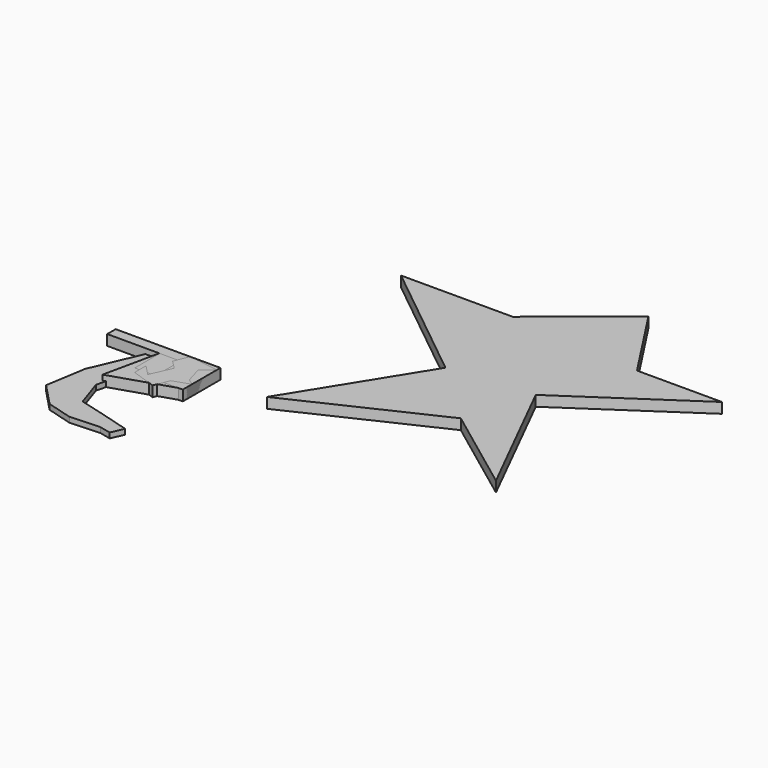
from build123d import *

# Parameters (mm, degrees)
PAD001_DEPTH = 10
SKETCH006_W  = 17.330512
SKETCH006_H  = 14.988543
PAD006_DEPTH = 10
PAD007_DEPTH = 5
PAD008_DEPTH = 5
PAD014_DEPTH = 10
PAD013_DEPTH = 10
SKETCH018_W  = 100.185661
SKETCH018_H  = 10.112617
PAD025_DEPTH = 10
SKETCH030_W  = 29.960587
SKETCH030_H  = 30.027189
PAD024_DEPTH = 10
SKETCH028_W  = 29.960587
SKETCH028_H  = 30.027189
PAD027_DEPTH = 10
SKETCH026_W  = 49.87516
SKETCH026_H  = 40.159164
PAD022_DEPTH = 10
SKETCH029_W  = 29.960587
SKETCH029_H  = 30.027189
PAD021_DEPTH = 10
SKETCH024_W  = 100.185661
SKETCH024_H  = 10.112617
PAD031_DEPTH = 10
SKETCH020_W  = 20.015697
SKETCH020_H  = 44.976456
PAD020_DEPTH = 10
PAD032_DEPTH = 10
PAD035_DEPTH = 5
PAD037_DEPTH = 5
PAD038_DEPTH = 5
PAD_DEPTH    = 10


with BuildPart() as body001:
    # Sketch001 → Pad001 (new body)
    with BuildSketch(Plane.XY):
        Polygon((-14.146512, 4.385867), (-14.444172, -3.274984), (-10.871528, -10.058305), (-4.385867, -14.146512), (3.274984, -14.444172), (10.058305, -10.871528), (14.146512, -4.385867), (14.444172, 3.274984), (10.871528, 10.058305), (4.385867, 14.146512), (-3.274984, 14.444172), (-10.058305, 10.871528), align=None)
    extrude(amount=PAD001_DEPTH)


with BuildPart() as body001_1:
    # Body001 placement: moved
    add(body001.part.moved(Location((-14.444172, -14.444172, 0))))


with BuildPart() as body006:
    # Sketch006 → Pad006 (new body)
    with BuildSketch(Plane.XY):
        with Locations((-1.850273, 0.820157)):
            Rectangle(SKETCH006_W, SKETCH006_H)
    extrude(amount=PAD006_DEPTH)

    # Sketch007 → Pad007 (join)
    with BuildSketch(Plane.XY):
        Polygon((10.019646, 10.457861), (4.573891, 15.162398), (-2.314561, 17.24522), (-9.454634, 16.346186), (-15.611746, 12.620748), (-19.721276, 6.713068), (-21.072648, -0.355362), (-19.432198, -7.362347), (-15.083575, -13.096315), (-8.778695, -16.565812), (-1.60773, -17.170929), (5.189397, -14.807036), (10.437399, -9.882873), (13.22885, -3.24987), (13.081082, 3.945064), align=None)
    extrude(amount=PAD007_DEPTH)


with BuildPart() as body006_1:
    # Body006 placement: moved
    add(body006.part.moved(Location((-13.22885, -17.24522, 0))))


with BuildPart() as body007:
    # Sketch008 → Pad008 (new body)
    with BuildSketch(Plane.XY):
        Polygon((7.007695, -11.784118), (11.767051, -2.863674), (10.374145, 7.150596), (3.361021, 14.433582), (-6.593548, 16.203429), (-15.687253, 11.784118), (-20.446609, 2.863674), (-19.053703, -7.150596), (-12.040579, -14.433582), (-2.086011, -16.203429), align=None)
    extrude(amount=PAD008_DEPTH)


with BuildPart() as body007_1:
    # Body007 placement: moved
    add(body007.part.moved(Location((-11.767051, -16.203429, 0))))


with BuildPart() as body008:
    # Sketch010 → Pad014 (new body)
    with BuildSketch(Plane.XY):
        Polygon((0, 0), (-11.495134, 26.22936), (-28.462859, 3.159603), align=None)
    extrude(amount=PAD014_DEPTH)


with BuildPart() as body008_1:
    # Body008 placement: moved
    add(body008.part.moved(Location((0, -26.22936, 0))))


with BuildPart() as body011:
    # Sketch014 → Pad013 (new body)
    with BuildSketch(Plane.XY):
        Polygon((0, 0), (-13.660303, -63.548782), (48.204708, -43.604561), align=None)
    extrude(amount=PAD013_DEPTH)


with BuildPart() as body011_1:
    # Body011 placement: moved
    add(body011.part.moved(Location((-48.204708, 0, 0))))


with BuildPart() as body017:
    # Sketch018 → Pad025 (new body)
    with BuildSketch(Plane.XY):
        with Locations((50.09283, 5.056309)):
            Rectangle(SKETCH018_W, SKETCH018_H)
    extrude(amount=PAD025_DEPTH)


with BuildPart() as body017_1:
    # Body017 placement: moved
    add(body017.part.moved(Location((-100.185661, -10.112617, 0))))


with BuildPart() as body018:
    # Sketch030 → Pad024 (new body)
    with BuildSketch(Plane.XY):
        with Locations((14.980294, 15.013594)):
            Rectangle(SKETCH030_W, SKETCH030_H)
    extrude(amount=PAD024_DEPTH)


with BuildPart() as body018_1:
    # Body018 placement: moved
    add(body018.part.moved(Location((-29.960587, -30.027189, 0))))


with BuildPart() as body022:
    # Sketch028 → Pad027 (new body)
    with BuildSketch(Plane.XY):
        with Locations((14.980294, 15.013594)):
            Rectangle(SKETCH028_W, SKETCH028_H)
    extrude(amount=PAD027_DEPTH)


with BuildPart() as body022_1:
    # Body022 placement: moved
    add(body022.part.moved(Location((-29.960587, -30.027189, 0))))


with BuildPart() as body024:
    # Sketch026 → Pad022 (new body)
    with BuildSketch(Plane.XY):
        with Locations((24.93758, 20.079582)):
            Rectangle(SKETCH026_W, SKETCH026_H)
    extrude(amount=PAD022_DEPTH)


with BuildPart() as body024_1:
    # Body024 placement: moved
    add(body024.part.moved(Location((-49.87516, -40.159164, 0))))


with BuildPart() as body026:
    # Sketch029 → Pad021 (new body)
    with BuildSketch(Plane.XY):
        with Locations((14.980294, 15.013594)):
            Rectangle(SKETCH029_W, SKETCH029_H)
    extrude(amount=PAD021_DEPTH)


with BuildPart() as body026_1:
    # Body026 placement: moved
    add(body026.part.moved(Location((-29.960587, -30.027189, 0))))


with BuildPart() as body027:
    # Sketch024 → Pad031 (new body)
    with BuildSketch(Plane.XY):
        with Locations((50.09283, 5.056309)):
            Rectangle(SKETCH024_W, SKETCH024_H)
    extrude(amount=PAD031_DEPTH)


with BuildPart() as body027_1:
    # Body027 placement: moved
    add(body027.part.moved(Location((-100.185661, -10.112617, 0))))


with BuildPart() as body030:
    # Sketch020 → Pad020 (new body)
    with BuildSketch(Plane.XY):
        with Locations((10.007848, 22.488228)):
            Rectangle(SKETCH020_W, SKETCH020_H)
    extrude(amount=PAD020_DEPTH)


with BuildPart() as body030_1:
    # Body030 placement: moved
    add(body030.part.moved(Location((-20.015697, -44.976456, 0))))


with BuildPart() as body031:
    # Sketch034 → Pad032 (new body)
    with BuildSketch(Plane.XY):
        Polygon((15.854637, -11.861474), (10.963326, 4.559358), (21.44471, 13.643224), (-7.204406, 17.835772), (-12.794459, 3.860602), (-4.75875, -4.175127), (-13.842596, -24.439129), (-23.625217, -14.307127), (-23.625217, -27.932922), (0, -35.968647), (5.722634, -21.644093), (21.794092, -16.054022), align=None)
    extrude(amount=PAD032_DEPTH)


with BuildPart() as body031_1:
    # Body031 placement: moved
    add(body031.part.moved(Location((-21.794092, -17.835772, 0))))


with BuildPart() as body032:
    # Sketch036 → Pad035 (new body)
    with BuildSketch(Plane.XY):
        Polygon((16.407789, 0), (14.20999, 9.292012), (7.459578, 7.408173), (-1.802612, 16.670362), (-17.344254, 4.268449), (-13.576584, -9.860312), (5.104784, -3.266889), (11.855196, -6.092639), align=None)
    extrude(amount=PAD035_DEPTH)


with BuildPart() as body032_1:
    # Body032 placement: moved
    add(body032.part.moved(Location((-16.407789, -16.670362, 0))))


with BuildPart() as body034:
    # Sketch035 → Pad037 (new body)
    with BuildSketch(Plane.XY):
        Polygon((13.758363, 0), (12.01147, 9.80005), (-4.409369, 11.896324), (-28.516535, 11.896324), (-29.564672, 0), (-24.673361, -3.476364), (-26.769636, -16.752783), (-8.601904, -11.162712), (4.325122, -16.054022), (16.5534, -8.717056), (24.239746, -11.512094), (21.44471, -2.777609), align=None)
    extrude(amount=PAD037_DEPTH)


with BuildPart() as body034_1:
    # Body034 placement: moved
    add(body034.part.moved(Location((-24.239746, -11.896324, 0))))


with BuildPart() as body037:
    # Sketch039 → Pad038 (new body)
    with BuildSketch(Plane.XY):
        Polygon((22.492847, -7.66892), (-6.156262, -9.066438), (-30.61281, -2.078853), (-51.575577, 19.932053), (-45.286743, 58.713158), (-20.830187, 115.661995), (-8.252522, 114.613869), (-13.493215, 83.519096), (-22.926462, 43.689846), (-13.842596, 16.438253), (10.613945, 9.80005), (38.564285, 1.764321), (33.323612, -10.114574), align=None)
    extrude(amount=PAD038_DEPTH)


with BuildPart() as body037_1:
    # Body037 placement: moved
    add(body037.part.moved(Location((-38.564285, -115.661995, 0))))


with BuildPart() as board_body:
    # Sketch → Pad (new body)
    with BuildSketch(Plane.XY):
        Polygon((-38.693619, 95.521584), (-117.703079, 32.091431), (-224.532791, 32.091431), (-105.462189, -63.61018), (-180.020416, -183.79361), (-45.370419, -120.363464), (38.090302, -182.680801), (-25.339891, -55.820522), (90.392357, 22.076147), (9.157263, 22.076147), align=None)
    extrude(amount=-PAD_DEPTH)


with BuildPart() as board_body_1:
    # Body placement: moved
    add(board_body.part.moved(Location((224.532791, 183.79361, 0))))


solid = Compound([body001_1.part, body006_1.part, body007_1.part, body008_1.part, body011_1.part, body017_1.part, body018_1.part, body022_1.part, body024_1.part, body026_1.part, body027_1.part, body030_1.part, body031_1.part, body032_1.part, body034_1.part, body037_1.part, board_body_1.part])
